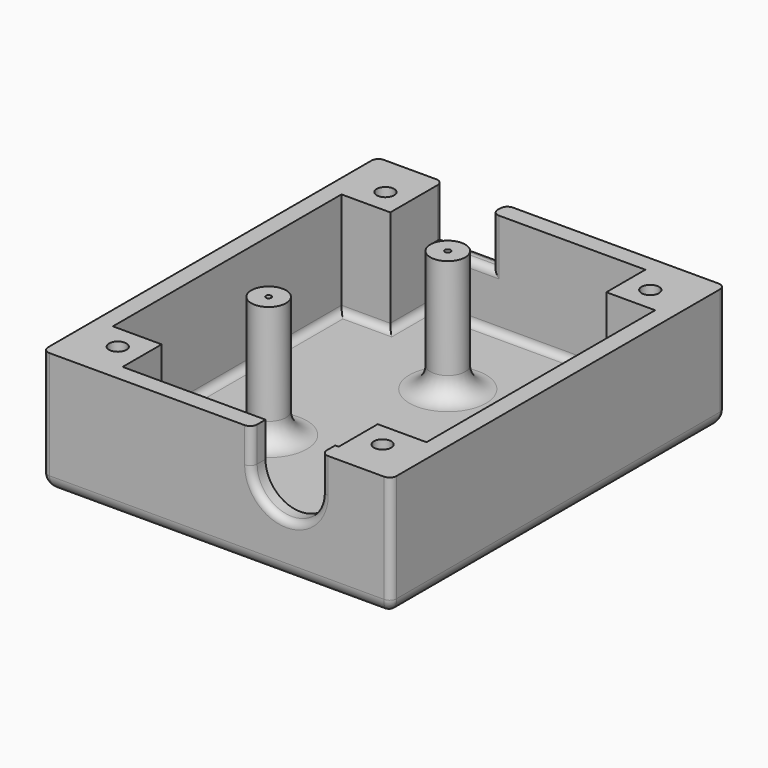
from build123d import *

# Parameters (mm, degrees)
SKETCH001_W                   = 50
SKETCH001_H                   = 60
PAD001_DEPTH                  = 17.5
THICKNESS_T                   = -2.5
SKETCH002_R                   = 2.5
PAD002_DEPTH                  = 17.45
SKETCH003_R                   = 0.4
POCKET_DEPTH                  = 1
SKETCH004_W                   = 7
SKETCH004_H                   = 7
PAD003_DEPTH                  = 15
SKETCH004_MIRRORED_2_W        = 7
SKETCH004_MIRRORED_2_H        = 7
PAD003_MIRRORED_2_DEPTH       = 15
SKETCH005_R                   = 1.25
POCKET001_DEPTH               = 12.5
SKETCH005_MIRRORED002_2_R     = 1.25
POCKET001_MIRRORED002_2_DEPTH = 12.5
POCKET002_DEPTH               = 2.5
SKETCH007_W                   = 9
SKETCH007_H                   = 7
POCKET003_DEPTH               = 2.5
FILLET_R                      = 3
FILLET001_R                   = 2
FILLET002_R                   = 1
FILLET003_R                   = 1
FILLET004_R                   = 1
FILLET005_R                   = 1


with BuildPart() as part:
    # Sketch001 → Pad001 (new body)
    with BuildSketch(Plane.XY):
        Rectangle(SKETCH001_W, SKETCH001_H)
    extrude(amount=PAD001_DEPTH)

    # Thickness
    thickness_openings = [part.faces().sort_by_distance(p)[0] for p in [
        (0, 0, 17.5),
    ]]
    offset(amount=THICKNESS_T, openings=thickness_openings)

    # Sketch002 (on Face11 of Thickness) → Pad002 (join)
    with BuildSketch(Plane.XY.offset(2.5)):
        with Locations((-10.415, -7.665)):
            Circle(SKETCH002_R)
        with Locations((-1.695, 13.555)):
            Circle(SKETCH002_R)
    extrude(amount=PAD002_DEPTH)

    # Sketch003 (on Face14 of Pad002) → Pocket (cut)
    with BuildSketch(Plane.XY.offset(19.95)):
        with Locations((-10.415, -7.665)):
            Circle(SKETCH003_R)
        with Locations((-1.695, 13.555)):
            Circle(SKETCH003_R)
    extrude(amount=-POCKET_DEPTH, mode=Mode.SUBTRACT)

    # Sketch004 (on Face11 of Pocket) → Pad003 (join)
    with BuildSketch(Plane.XY.offset(2.5)):
        with Locations((-19, 24)):
            Rectangle(SKETCH004_W, SKETCH004_H)
    pad003 = extrude(amount=PAD003_DEPTH)

    # Sketch004 Mirrored 2 → Pad003 Mirrored 2 (add)
    with BuildSketch(Plane(origin=(0, 0, 2.5), x_dir=(-1, 0, 0), z_dir=(0, 0, -1))):
        with Locations((-19, 24)):
            Rectangle(SKETCH004_MIRRORED_2_W, SKETCH004_MIRRORED_2_H)
    pad003_mirrored_2 = extrude(amount=-PAD003_MIRRORED_2_DEPTH)

    # Mirrored001: Pad003, Pad003 Mirrored 2 across Sketch004 H_Axis
    add(pad003.mirror(Plane(origin=(0, 0, 2.5), x_dir=(0, 0, 1), z_dir=(0, 1, 0))))
    add(pad003_mirrored_2.mirror(Plane(origin=(0, 0, 2.5), x_dir=(0, 0, 1), z_dir=(0, 1, 0))))

    # Sketch005 (on Face11 of MultiTransform) → Pocket001 (cut)
    with BuildSketch(Plane.XY.offset(17.5)):
        with Locations((-19, 24)):
            Circle(SKETCH005_R)
    pocket001 = extrude(amount=-POCKET001_DEPTH, mode=Mode.SUBTRACT)

    # Sketch005 Mirrored002 2 → Pocket001 Mirrored002 2 (cut)
    with BuildSketch(Plane(origin=(0, 0, 17.5), x_dir=(-1, 0, 0), z_dir=(0, 0, -1))):
        with Locations((-19, 24)):
            Circle(SKETCH005_MIRRORED002_2_R)
    pocket001_mirrored002_2 = extrude(amount=POCKET001_MIRRORED002_2_DEPTH, mode=Mode.SUBTRACT)

    # Mirrored003: Pocket001, Pocket001 Mirrored002 2 across Sketch005 H_Axis
    add(pocket001.mirror(Plane(origin=(0, 0, 17.5), x_dir=(0, 0, 1), z_dir=(0, 1, 0))), mode=Mode.SUBTRACT)
    add(pocket001_mirrored002_2.mirror(Plane(origin=(0, 0, 17.5), x_dir=(0, 0, 1), z_dir=(0, 1, 0))), mode=Mode.SUBTRACT)

    # Sketch006 (on Face6 of MultiTransform001) → Pocket002 (cut)
    with BuildSketch(Plane.XZ.offset(30)):
        with BuildLine():
            ThreePointArc((15, 17.5), (10, 22.5), (5, 17.5))
            Line((5, 17.5), (5, 12.5))
            ThreePointArc((5, 12.5), (10, 7.5), (15, 12.5))
            Line((15, 12.5), (15, 17.5))
        make_face()
    extrude(amount=-POCKET002_DEPTH, mode=Mode.SUBTRACT)

    # Sketch007 (on Face1 of Pocket002) → Pocket003 (cut)
    with BuildSketch(Plane(origin=(0, 30, 0), x_dir=(-1, 0, 0), z_dir=(0, 1, 0))):
        with Locations((11, 14)):
            Rectangle(SKETCH007_W, SKETCH007_H)
    extrude(amount=-POCKET003_DEPTH, mode=Mode.SUBTRACT)

    # Fillet
    fillet_edges = [part.edges().sort_by_distance(p)[0] for p in [
        (-12.915, -7.665, 2.5),
        (-4.195, 13.555, 2.5),
    ]]
    fillet(fillet_edges, radius=FILLET_R)

    # Fillet001
    fillet001_edges = [part.edges().sort_by_distance(p)[0] for p in [
        (-25, 0, 0),
        (0, -30, 0),
        (25, 0, 0),
        (0, 30, 0),
    ]]
    fillet(fillet001_edges, radius=FILLET001_R)

    # Fillet002
    fillet002_edges = [part.edges().sort_by_distance(p)[0] for p in [
        (-25, -30, 9.75),
        (25, -30, 9.75),
        (25, 30, 9.75),
        (-25, 30, 9.75),
    ]]
    fillet(fillet002_edges, radius=FILLET002_R)

    # Fillet003
    fillet003_edges = [part.edges().sort_by_distance(p)[0] for p in [
        (-11, 30, 10.5),
        (-15.5, 30, 14),
        (-6.5, 30, 14),
        (-6.5, 27.5, 14),
        (-11, 27.5, 10.5),
    ]]
    fillet(fillet003_edges, radius=FILLET003_R)

    # Fillet004
    fillet004_edges = [part.edges().sort_by_distance(p)[0] for p in [
        (10, -30, 7.5),
        (5, -30, 15),
        (15, -30, 15),
    ]]
    fillet(fillet004_edges, radius=FILLET004_R)

    # Fillet005
    fillet005_edges = [part.edges().sort_by_distance(p)[0] for p in [
        (19, -20.5, 2.5),
        (15.5, -24, 2.5),
        (-15.5, -24, 2.5),
        (-19, -20.5, 2.5),
        (-15.5, 24, 2.5),
        (-19, 20.5, 2.5),
        (19, 20.5, 2.5),
        (15.5, 24, 2.5),
        (0, 27.5, 2.5),
        (22.5, 0, 2.5),
        (0, -27.5, 2.5),
        (-22.5, 0, 2.5),
    ]]
    fillet(fillet005_edges, radius=FILLET005_R)


solid = part.part
